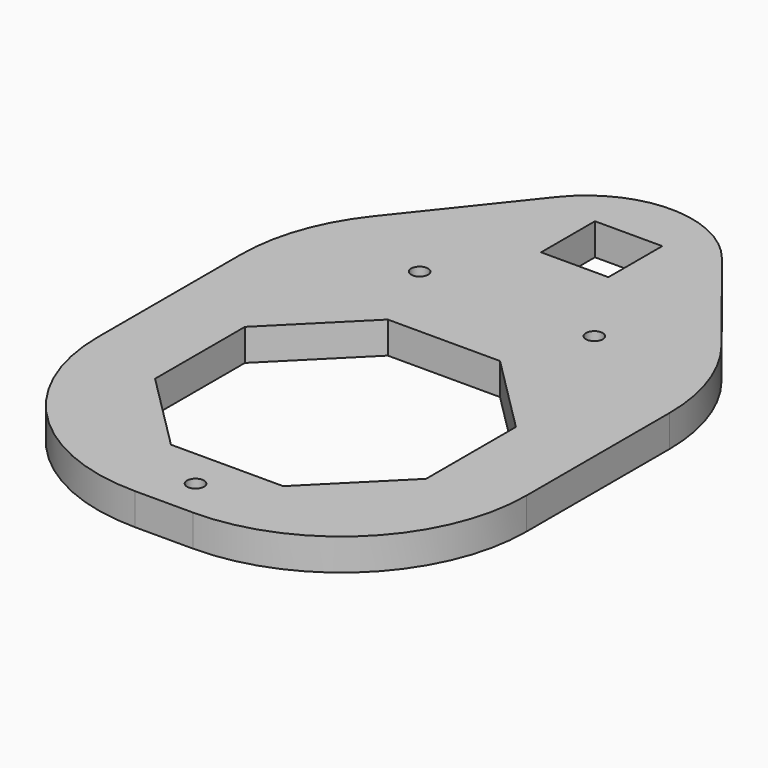
from build123d import *

# Parameters (mm, degrees)
F0_R     = 1.6
F0_W     = 12.72
F0_H     = 12.72
F1_DEPTH = 6
F2_R     = 35
F3_R     = 20


with BuildPart() as f1:
    # F0 (on Top) → F1 (new body)
    with BuildSketch(Plane.XY):
        Polygon((25.6, 116.940437), (-14.9, 66.1), (-14.9, -14.9), (66.1, -14.9), (66.1, 66.1), align=None)
        with Locations((25.6, -7.45)):
            Circle(F0_R, mode=Mode.SUBTRACT)
        Polygon((0, 14.996133), (0, 36.203867), (14.996133, 51.2), (36.203867, 51.2), (51.2, 36.203867), (51.2, 14.996133), (36.203867, 0), (14.996133, 0), align=None, mode=Mode.SUBTRACT)
        with Locations((9.1, 66.1)):
            Circle(F0_R, mode=Mode.SUBTRACT)
        with Locations((42.1, 66.1)):
            Circle(F0_R, mode=Mode.SUBTRACT)
        with Locations((25.6, 88.46)):
            Rectangle(F0_W, F0_H, mode=Mode.SUBTRACT)
    extrude(amount=F1_DEPTH)

    # F2
    f2_edges = [f1.edges().sort_by_distance(p)[0] for p in [
        (66.1, -14.9, 3),
        (-14.9, -14.9, 3),
        (-14.9, 66.1, 3),
        (66.1, 66.1, 3),
    ]]
    fillet(f2_edges, radius=F2_R)

    # F3
    f3_edges = [f1.edges().sort_by_distance(p)[0] for p in [
        (25.6, 116.940437, 3),
    ]]
    fillet(f3_edges, radius=F3_R)


solid = f1.part
